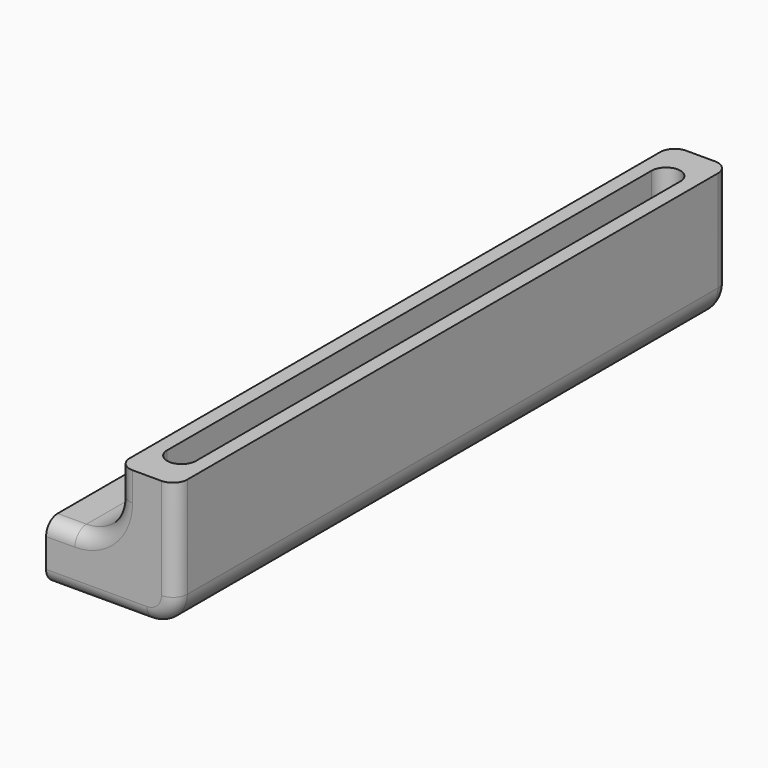
from build123d import *

# Parameters (mm, degrees)
F1_DEPTH = 240
F2_R     = 15
F3_R     = 10
F5_DEPTH = 10
F7_DEPTH = 10
F8_R     = 5
F9_R     = 5
F10_R    = 5


with BuildPart() as f1:
    # F0 (on Front) → F1 (new body)
    with BuildSketch(Plane.XZ):
        Polygon((-22.5, -22.5), (22.5, -22.5), (22.5, 22.5), (2.5, 22.5), (2.5, -2.5), (-22.5, -2.5), align=None)
    extrude(amount=F1_DEPTH)

    # F2
    f2_edges = [f1.edges().sort_by_distance(p)[0] for p in [
        (2.5, -120, -2.5),
    ]]
    fillet(f2_edges, radius=F2_R)

    # F3
    f3_edges = [f1.edges().sort_by_distance(p)[0] for p in [
        (22.5, -120, -22.5),
    ]]
    fillet(f3_edges, radius=F3_R)

    # F4 (on face) → F5 (cut)
    with BuildSketch(Plane.XY.offset(22.5)):
        with BuildLine():
            Line((7.5, -15), (7.5, -225))
            ThreePointArc((7.5, -225), (12.5, -230), (17.5, -225))
            Line((17.5, -225), (17.5, -15))
            ThreePointArc((17.5, -15), (12.5, -10), (7.5, -15))
        make_face()
    extrude(amount=-F5_DEPTH, mode=Mode.SUBTRACT)

    # F6 (on face) → F7 (cut)
    with BuildSketch(Plane(origin=(-22.5, 0, 0), x_dir=(0, -1, 0), z_dir=(-1, 0, 0))):
        with BuildLine():
            Line((225, -7.5), (15, -7.5))
            ThreePointArc((15, -7.5), (10, -12.5), (15, -17.5))
            Line((15, -17.5), (225, -17.5))
            ThreePointArc((225, -17.5), (230, -12.5), (225, -7.5))
        make_face()
    extrude(amount=-F7_DEPTH, mode=Mode.SUBTRACT)

    # F8
    f8_edges = [f1.edges().sort_by_distance(p)[0] for p in [
        (22.5, -240, 5),
        (19.571068, -240, -19.571068),
    ]]
    fillet(f8_edges, radius=F8_R)

    # F9
    f9_edges = [f1.edges().sort_by_distance(p)[0] for p in [
        (22.5, 0, 5),
    ]]
    fillet(f9_edges, radius=F9_R)

    # F10
    f10_edges = [f1.edges().sort_by_distance(p)[0] for p in [
        (-1.893398, -240, 1.893398),
        (-1.893398, 0, 1.893398),
    ]]
    fillet(f10_edges, radius=F10_R)


solid = f1.part
